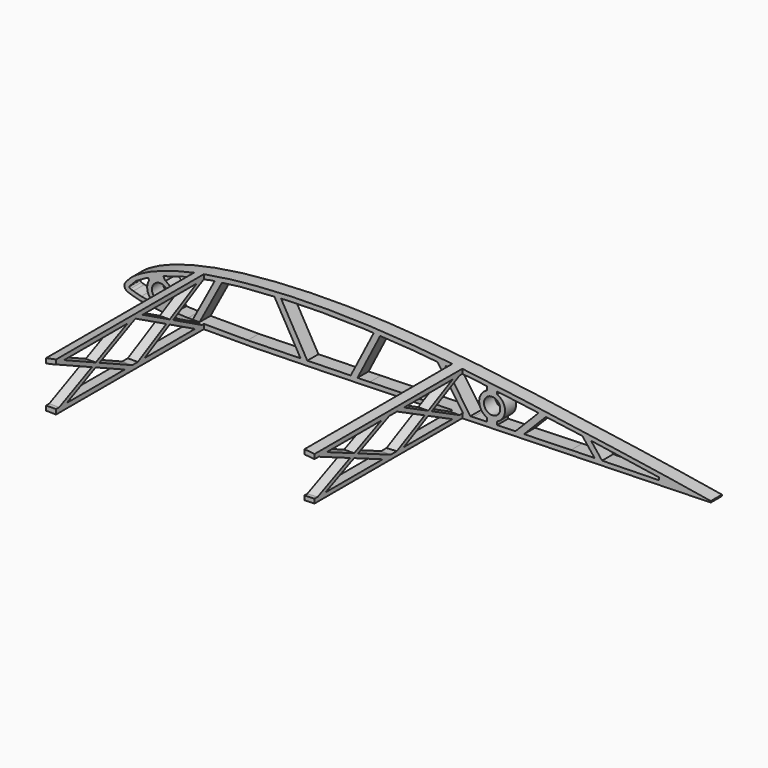
from build123d import *

# Parameters (mm, degrees)
PAD081_DEPTH    = 99.95
POCKET105_DEPTH = 99.95
SKETCH189_W     = 94.552856
SKETCH189_H     = 125.009666
POCKET106_DEPTH = 2.5
SKETCH191_W     = 55
SKETCH191_H     = 110
SKETCH191_W_2   = 125
SKETCH191_W_3   = 130
POCKET107_DEPTH = 50
SKETCH190_R     = 4.1
PAD082_DEPTH    = 7
PAD083_DEPTH    = 5
PAD084_DEPTH    = 5


with BuildPart() as part:
    # Sketch187 → Pad081 (new body)
    with BuildSketch(Plane.XZ):
        with BuildLine():
            add(Edge.make_bspline(
                [(299.999063, 0.026825), (299.662766, 0.037193), (298.339429, 0.190401), (295.439956, 0.589669), (290.775356, 1.337839), (284.500044, 2.393262), (276.735212, 3.66473), (267.577355, 5.083019), (257.136483, 6.653879), (245.549215, 8.381993), (232.975291, 10.222771), (219.590016, 12.153256), (205.573823, 14.115503), (191.111579, 16.055183), (176.381713, 17.897983), (161.544489, 19.553409), (146.739309, 20.940939), (132.087536, 21.99009), (117.705275, 22.664279), (103.703346, 22.961168), (90.192549, 22.858072), (77.284675, 22.375726), (65.094168, 21.544938), (53.730431, 20.369385), (43.29002, 18.857963), (33.852484, 17.043697), (25.485501, 14.967735), (18.252292, 12.67281), (12.179436, 10.224412), (7.338355, 7.689021), (3.623023, 5.152403), (1.3546, 2.748114), (-0.314638, 0.590402), (0.575789, -1.804065), (3.482069, -2.72942), (7.386052, -3.91761), (13.030922, -4.754284), (20.096342, -5.463024), (28.645402, -5.933379), (38.56853, -6.201185), (49.790194, -6.284208), (62.196701, -6.193111), (75.660953, -5.967607), (90.034637, -5.629522), (105.153445, -5.226063), (120.83724, -4.775199), (136.895942, -4.296045), (153.13493, -3.818601), (169.356828, -3.345106), (185.36574, -2.889379), (200.968742, -2.465331), (215.974941, -2.074889), (230.201502, -1.715375), (243.47905, -1.394255), (255.639348, -1.103787), (266.55871, -0.849968), (276.034544, -0.603524), (284.209012, -0.340437), (290.324953, -0.117215), (295.955653, 0.018504), (297.364702, 0.013759), (300.343856, 0.01512), (300.000055, 0.026794), (299.999063, 0.026825)],
                knots=[0, 0, 0, 0, 1.017748, 3.99659, 8.779341, 15.189917, 23.087031, 32.383824, 42.990765, 54.76218, 67.530065, 81.114584, 95.333435, 109.988542, 124.889458, 139.866624, 154.774633, 169.496697, 183.930349, 197.964304, 211.506735, 224.45797, 236.709214, 248.156653, 258.723012, 268.346769, 276.97692, 284.567784, 291.102108, 296.573756, 300.992679, 304.39163, 306.761357, 308.43213, 311.131254, 315.298227, 320.951765, 328.080828, 336.654655, 346.609821, 357.866231, 370.316475, 383.83025, 398.264023, 413.449345, 429.202773, 445.334827, 461.646891, 477.940787, 494.021253, 509.693044, 524.767168, 539.054704, 552.387642, 564.607107, 575.560217, 585.109622, 593.180747, 599.700326, 604.53767, 607.540683, 608.560842, 608.563842, 608.563842, 608.563842, 608.563842], degree=3))
        make_face()
    extrude(amount=PAD081_DEPTH)

    # Sketch188 (on Face3 of Pad081) → Pocket105 (cut)
    with BuildSketch(Plane.XZ.offset(99.95)):
        with BuildLine():
            Line((2.713263, 0.775372), (3.386703, 1.523026))
            Line((3.386703, 1.523026), (5.993214, 4.179621))
            Line((5.993214, 4.179621), (11.230826, 7.180706))
            Line((11.230826, 7.180706), (18.928726, 10.492708))
            Line((18.928726, 10.492708), (30.015602, 13.804502))
            Line((30.015602, 13.804502), (43.705284, 16.658491))
            Line((43.705284, 16.658491), (58.37534, 18.58366))
            Line((58.37534, 18.58366), (81.932846, 20.199753))
            Line((81.932846, 20.199753), (99.115959, 20.581533))
            Line((99.115959, 20.581533), (120.506348, 20.199753))
            Line((120.506348, 20.199753), (145.772324, 18.655943))
            Line((145.772324, 18.655943), (175.747543, 15.772772))
            Line((175.747543, 15.772772), (200.435547, 12.569891))
            Line((200.435547, 12.569891), (229.384109, 8.602522))
            Line((229.384109, 8.602522), (252.135086, 5.213018))
            Line((252.135086, 5.213018), (269.069916, 2.671427))
            Line((269.069916, 2.671427), (269.069916, 1.39956))
            Line((269.069916, 1.39956), (224.761032, 0.436598))
            Line((224.761032, 0.436598), (175.486649, -1.027315))
            Line((175.486649, -1.027315), (123.47789, -2.412929))
            Line((123.47789, -2.412929), (62.077515, -3.876549))
            Line((62.077515, -3.876549), (32.052879, -3.760909))
            Line((32.052879, -3.760909), (18.887957, -3.18288))
            Line((18.887957, -3.18288), (12.728564, -2.489715))
            Line((12.728564, -2.489715), (8.493419, -1.872198))
            Line((8.493419, -1.872198), (4.562357, -0.768246))
            Line((4.562357, -0.768246), (3.013953, -0.301296))
            ThreePointArc((2.713263, 0.775372), (2.567567, 0.15436), (3.013953, -0.301296))
        make_face()
    extrude(amount=-POCKET105_DEPTH, mode=Mode.SUBTRACT)

    # Sketch189 → Pocket106 (cut, symmetric)
    with BuildSketch(Plane.XY):
        with Locations((342.276428, -45.135685)):
            Rectangle(SKETCH189_W, SKETCH189_H)
    extrude(amount=POCKET106_DEPTH, both=True, mode=Mode.SUBTRACT)

    # Sketch191 → Pocket107 (cut, symmetric)
    with BuildSketch(Plane.XY):
        with Locations((7.5, -62)):
            Rectangle(SKETCH191_W, SKETCH191_H)
        with Locations((102.5, -62)):
            Rectangle(SKETCH191_W_2, SKETCH191_H)
        with Locations((235, -62)):
            Rectangle(SKETCH191_W_3, SKETCH191_H)
    extrude(amount=POCKET107_DEPTH, both=True, mode=Mode.SUBTRACT)

    # Sketch190 (on Face16 of Pocket107) → Pad082 (join)
    with BuildSketch(Plane.XZ.offset(7)):
        Polygon((45.883972, 17.721869), (33.929979, -4.654965), (37.331221, -4.654965), (49.864502, 18.806244), align=None)
        with BuildLine():
            ThreePointArc((12.49229, 6.45183), (11.877033, 0.818423), (15.915785, -3.156789))
            Line((15.915785, -3.156789), (16.615922, -4.582716))
            Line((16.615922, -4.582716), (26.093039, -4.582716))
            Line((23.927186, 0.331954), (26.093039, -4.582716))
            ThreePointArc((23.927186, 0.331954), (24.083233, 5.290038), (20.696327, 8.914374))
            Line((20.696327, 8.914374), (19.191151, 11.361285))
            Line((11.725203, 8.211095), (19.191151, 11.361285))
            Line((12.49229, 6.45183), (11.725203, 8.211095))
        make_face()
        with Locations((18, 3)):
            Circle(SKETCH190_R, mode=Mode.SUBTRACT)
        Polygon((74.837349, 20.968384), (89.206329, -4.249731), (92.659144, -4.249731), (78.184032, 21.154647), align=None)
        Polygon((113.371621, -3.617416), (125.992361, 20.986459), (129.33754, 20.934824), (116.743287, -3.617416), align=None)
        Polygon((156.489991, 19.012594), (171.223801, -2.187052), (175.064011, -2.455857), (160.385949, 18.663577), align=None)
        Polygon((195.991472, -1.145031), (209.190294, 12.320477), (213.439896, 12.370226), (200.19231, -1.145031), align=None)
        Polygon((229.837707, 9.194464), (237.095519, 0), (240.917549, 0), (234.226173, 8.476883), align=None)
        with BuildLine():
            ThreePointArc((182.5, 13), (178.5, 7), (182.5, 1))
            Line((182.5, 1), (182.5, -1.799935))
            Line((182.5, -1.799935), (187.5, -1.799935))
            Line((187.5, -1.799935), (187.5, 1))
            ThreePointArc((187.5, 1), (191.5, 7), (187.5, 13))
            Line((187.5, 15.534908), (187.5, 13))
            Line((182.5, 15.936711), (187.5, 15.534908))
            Line((182.5, 13), (182.5, 15.936711))
        make_face()
        with Locations((185, 7)):
            Circle(SKETCH190_R, mode=Mode.SUBTRACT)
    extrude(amount=-PAD082_DEPTH)

    # Sketch192 (on Face12 of Pad082) → Pad083 (join)
    with BuildSketch(Plane(origin=(35, 0, 0), x_dir=(0, 0, -1), z_dir=(-1, 0, 0))):
        Polygon((-17.098402, 50), (-16.000205, 50), (5.939144, 8.475523), (5.961339, 7.089303), (4.409559, 7.089303), (-17.122807, 47.843484), align=None)
        Polygon((-17.129333, 7.10705), (-17.129333, 9.145432), (4.558284, 50), (5.87403, 50.001778), (5.939742, 48.336863), (-15.947074, 7.10705), align=None)
        Polygon((-17.135797, 50), (-15.97758, 50.087739), (5.971195, 97.920066), (5.971195, 99.859802), (4.66077, 99.859802), (-17.135797, 52.359178), align=None)
        Polygon((-15.957584, 99.885406), (-17.033993, 99.885406), (-17.078244, 97.5311), (4.717648, 50), (5.827496, 50.157914), (5.827496, 52.377885), align=None)
    extrude(amount=-PAD083_DEPTH)

    # Sketch193 (on Face7 of Pad083) → Pad084 (join)
    with BuildSketch(Plane(origin=(170, 0, 0), x_dir=(0, 0, 1), z_dir=(1, 0, 0))):
        Polygon((-3.230705, 7.091972), (-2.057019, 7.091972), (18.437528, 47.77545), (18.437528, 50), (17.308382, 49.979477), (-3.230705, 9.207583), align=None)
        Polygon((17.122561, 7.079828), (18.495286, 7.079828), (18.495286, 8.806629), (-2.098574, 50), (-3.175621, 49.915909), (-3.175621, 47.681762), align=None)
        Polygon((-3.193453, 99.869281), (-2.030565, 99.869281), (18.427737, 53.149961), (18.502468, 50), (17.575653, 50.109833), (-3.193453, 97.538917), align=None)
        Polygon((-3.223656, 50), (-3.223656, 52.317749), (17.471001, 99.860643), (18.452137, 99.860643), (18.452137, 97.103538), (-2.059094, 49.982041), align=None)
    extrude(amount=-PAD084_DEPTH)


with BuildPart() as part_1:
    # Body038 placement: moved
    add(part.part.moved(Location((0, -300, 0))))


solid = part_1.part
